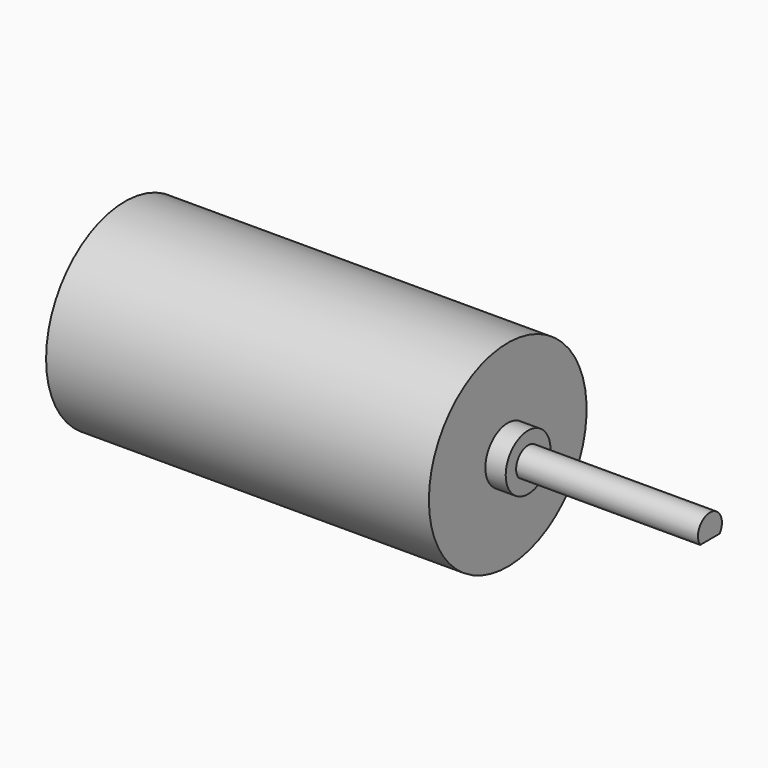
from build123d import *

# Parameters (mm, degrees)
SKETCH058_R             = 12.2936
PAD026_DEPTH            = 47.752
PAD027_DEPTH            = 25.2222
SKETCH062_R             = 3.4925
PAD029_DEPTH            = 2.54
BODY021_PLACEMENT_ANGLE = 180


with BuildPart() as part:
    # Sketch058 → Pad026 (new body)
    with BuildSketch(Plane.YZ):
        Circle(SKETCH058_R)
    extrude(amount=PAD026_DEPTH)

    # Sketch059 (on Face2 of Pad026) → Pad027 (join)
    with BuildSketch(Plane(origin=(0, 0, 0), x_dir=(0, 1, 0), z_dir=(-1, 0, 0))):
        with BuildLine():
            ThreePointArc((-1.524, 1.078304), (0, -1.8669), (1.524, 1.078304))
            Line((-1.524, 1.078304), (1.524, 1.078304))
        make_face()
    extrude(amount=PAD027_DEPTH)

    # Sketch062 (on Face2 of Pad027) → Pad029 (join)
    with BuildSketch(Plane(origin=(0, 0, 0), x_dir=(0, 1, 0), z_dir=(-1, 0, 0))):
        Circle(SKETCH062_R)
    extrude(amount=PAD029_DEPTH)


with BuildPart() as part_1:
    # Body021 placement: moved
    add(part.part.moved(Location((-0.1778, 40.259, 0.5588))).rotate(Axis((-0.1778, 40.259, 0.5588), (0, 0, 1)), BODY021_PLACEMENT_ANGLE))


solid = part_1.part
